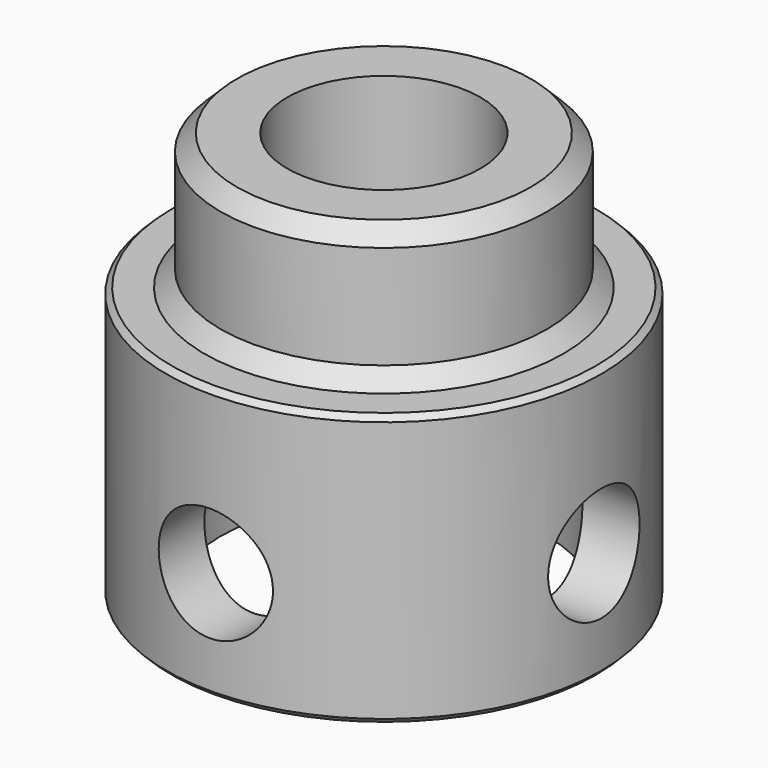
from build123d import *

# Parameters (mm, degrees)
SKETCH_R        = 8
PAD_DEPTH       = 10
SKETCH001_R     = 6
PAD001_DEPTH    = 5
SKETCH002_R     = 3.55
POCKET_DEPTH    = 20
SKETCH003_R     = 6
POCKET001_DEPTH = 8
SKETCH004_R     = 2.1
POCKET002_DEPTH = 50
SKETCH005_R     = 2.1
POCKET003_DEPTH = 50
CHAMFER_SIZE    = 0.6
CHAMFER001_SIZE = 0.2
CHAMFER002_SIZE = 0.2


with BuildPart() as part:
    # Sketch → Pad (new body)
    with BuildSketch(Plane.XY):
        Circle(SKETCH_R)
    extrude(amount=PAD_DEPTH)

    # Sketch001 (on Face3 of Pad) → Pad001 (join)
    with BuildSketch(Plane.XY.offset(10)):
        Circle(SKETCH001_R)
    extrude(amount=PAD001_DEPTH)

    # Sketch002 (on Face5 of Pad001) → Pocket (cut)
    with BuildSketch(Plane.XY.offset(15)):
        Circle(SKETCH002_R)
    extrude(amount=-POCKET_DEPTH, mode=Mode.SUBTRACT)

    # Sketch003 (on Face2 of Pocket) → Pocket001 (cut)
    with BuildSketch(Plane(origin=(0, 0, 0), x_dir=(1, 0, 0), z_dir=(0, 0, -1))):
        Circle(SKETCH003_R)
    extrude(amount=-POCKET001_DEPTH, mode=Mode.SUBTRACT)

    # Sketch004 → Pocket002 (cut, symmetric)
    with BuildSketch(Plane.XZ):
        with Locations((0, 4)):
            Circle(SKETCH004_R)
    extrude(amount=POCKET002_DEPTH, both=True, mode=Mode.SUBTRACT)

    # Sketch005 → Pocket003 (cut, symmetric)
    with BuildSketch(Plane.YZ):
        with Locations((0, 4)):
            Circle(SKETCH005_R)
    extrude(amount=POCKET003_DEPTH, both=True, mode=Mode.SUBTRACT)

    # Chamfer
    chamfer_edges = [part.edges().sort_by_distance(p)[0] for p in [
        (6, 0, 12.5),
        (-6, 0, 10),
        (-6, 0, 15),
    ]]
    chamfer(chamfer_edges, length=CHAMFER_SIZE)

    # Chamfer001
    chamfer001_edges = [part.edges().sort_by_distance(p)[0] for p in [
        (-8, 0, 10),
    ]]
    chamfer(chamfer001_edges, length=CHAMFER001_SIZE)

    # Chamfer002
    chamfer002_edges = [part.edges().sort_by_distance(p)[0] for p in [
        (-8, 0, 0),
    ]]
    chamfer(chamfer002_edges, length=CHAMFER002_SIZE)


solid = part.part
